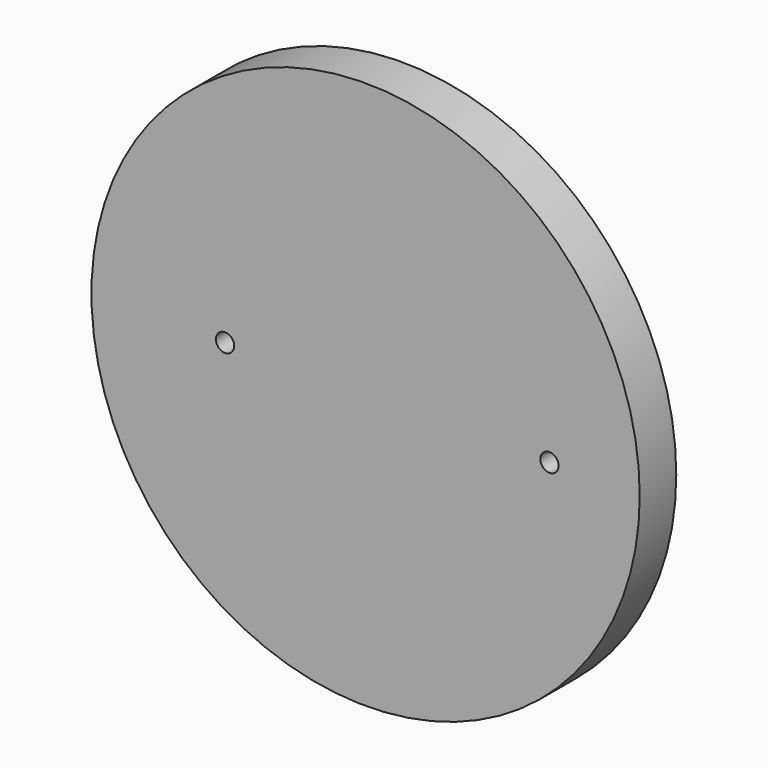
from build123d import *

# Parameters (mm, degrees)
F0_R     = 30
F0_R_2   = 1
F1_DEPTH = 5


with BuildPart() as f1:
    # F0 (on Front) → F1 (new body)
    with BuildSketch(Plane.XZ):
        Circle(F0_R)
        with BuildLine():
            add(Edge.make_bspline(
                [(-13.7269990519, 18.6152122915), (-15.1371462379, 16.9890722765), (-25.653916579, 18.4158717137), (-15.8511106668, 8.7845823554), (-30.7346974427, 6.8754235383), (-22.3104396416, -0.3450801485), (-28.5168594297, -12.6533137492), (-19.6802737009, -7.7894398944), (-18.7183033933, -20.3052577395), (-8.619427315, -13.5824305291), (-10.8485756599, -27.6919181052), (2.2407443314, -19.5346618116), (6.6691013214, -25.1414717323), (9.0755892453, -26.6599078915), (16.9583510328, -13.4713176979), (19.8583270216, -18.894567834), (21.2340853159, -14.454628511), (20.1886319265, -9.4870429547), (29.0799658375, -10.7330025055), (20.5992686296, -1.7212648743), (29.7543338746, 4.3123800045), (21.6161989339, 9.2363228612), (25.1868039544, 20.0594869088), (9.8165314546, 16.9604540925), (10.9622040359, 29.4586608785), (2.5915422773, 15.9031095923), (-5.6448923703, 24.2289531112), (-16.2332741317, 26.3426807082), (-12.5505094377, 19.9719053075), (-13.7269990519, 18.6152122915)],
                knots=[0, 0, 0, 0, 0.0409048309, 0.076725531, 0.1180334126, 0.1563577395, 0.2000573533, 0.2303991963, 0.2711022151, 0.3070721741, 0.3453024726, 0.3913320254, 0.4263925123, 0.4458011195, 0.4964186338, 0.5193419184, 0.5444966147, 0.573828042, 0.6044241029, 0.6435346722, 0.6821203256, 0.7190026426, 0.7584423834, 0.8049824643, 0.8394722999, 0.8818012473, 0.9279618295, 0.9658729888, 1, 1, 1, 1], degree=3))
        make_face(mode=Mode.SUBTRACT)
        with BuildLine():
            add(Edge.make_bspline(
                [(-13.7269990519, 18.6152122915), (-15.1371462379, 16.9890722765), (-25.653916579, 18.4158717137), (-15.8511106668, 8.7845823554), (-30.7346974427, 6.8754235383), (-22.3104396416, -0.3450801485), (-28.5168594297, -12.6533137492), (-19.6802737009, -7.7894398944), (-18.7183033933, -20.3052577395), (-8.619427315, -13.5824305291), (-10.8485756599, -27.6919181052), (2.2407443314, -19.5346618116), (6.6691013214, -25.1414717323), (9.0755892453, -26.6599078915), (16.9583510328, -13.4713176979), (19.8583270216, -18.894567834), (21.2340853159, -14.454628511), (20.1886319265, -9.4870429547), (29.0799658375, -10.7330025055), (20.5992686296, -1.7212648743), (29.7543338746, 4.3123800045), (21.6161989339, 9.2363228612), (25.1868039544, 20.0594869088), (9.8165314546, 16.9604540925), (10.9622040359, 29.4586608785), (2.5915422773, 15.9031095923), (-5.6448923703, 24.2289531112), (-16.2332741317, 26.3426807082), (-12.5505094377, 19.9719053075), (-13.7269990519, 18.6152122915)],
                knots=[0, 0, 0, 0, 0.0409048309, 0.076725531, 0.1180334126, 0.1563577395, 0.2000573533, 0.2303991963, 0.2711022151, 0.3070721741, 0.3453024726, 0.3913320254, 0.4263925123, 0.4458011195, 0.4964186338, 0.5193419184, 0.5444966147, 0.573828042, 0.6044241029, 0.6435346722, 0.6821203256, 0.7190026426, 0.7584423834, 0.8049824643, 0.8394722999, 0.8818012473, 0.9279618295, 0.9658729888, 1, 1, 1, 1], degree=3))
        make_face()
        with Locations((-15.3772675954, 0)):
            Circle(F0_R_2, mode=Mode.SUBTRACT)
        Polygon((0.1716255203, -2.267636041), (-4.6395142563, -5.3007458337), (-2.7900368436, -0.5325208231), (-6.8591465242, 1.8514018739), (-1.8653717592, 1.8514018739), (0, 6.6606048495), (2.1505607653, 1.8514018739), (6.7052720115, 1.8514018739), (3.1522206, -0.3885652712), (5.3488304839, -5.3007458337), align=None, mode=Mode.SUBTRACT)
        with Locations((20.1227324046, 0)):
            Circle(F0_R_2, mode=Mode.SUBTRACT)
        Polygon((-1.8653717592, 1.8514018739), (-2.7900368436, -0.5325208231), (0.1716255203, -2.267636041), (3.1522206, -0.3885652712), (2.1505607653, 1.8514018739), align=None)
        Polygon((0, 6.6606048495), (-1.8653717592, 1.8514018739), (2.1505607653, 1.8514018739), align=None)
        Polygon((3.1522206, -0.3885652712), (0.1716255203, -2.267636041), (5.3488304839, -5.3007458337), align=None)
        Polygon((-2.7900368436, -0.5325208231), (-4.6395142563, -5.3007458337), (0.1716255203, -2.267636041), align=None)
        Polygon((-6.8591465242, 1.8514018739), (-2.7900368436, -0.5325208231), (-1.8653717592, 1.8514018739), align=None)
        Polygon((2.1505607653, 1.8514018739), (3.1522206, -0.3885652712), (6.7052720115, 1.8514018739), align=None)
    extrude(amount=F1_DEPTH)


solid = f1.part
